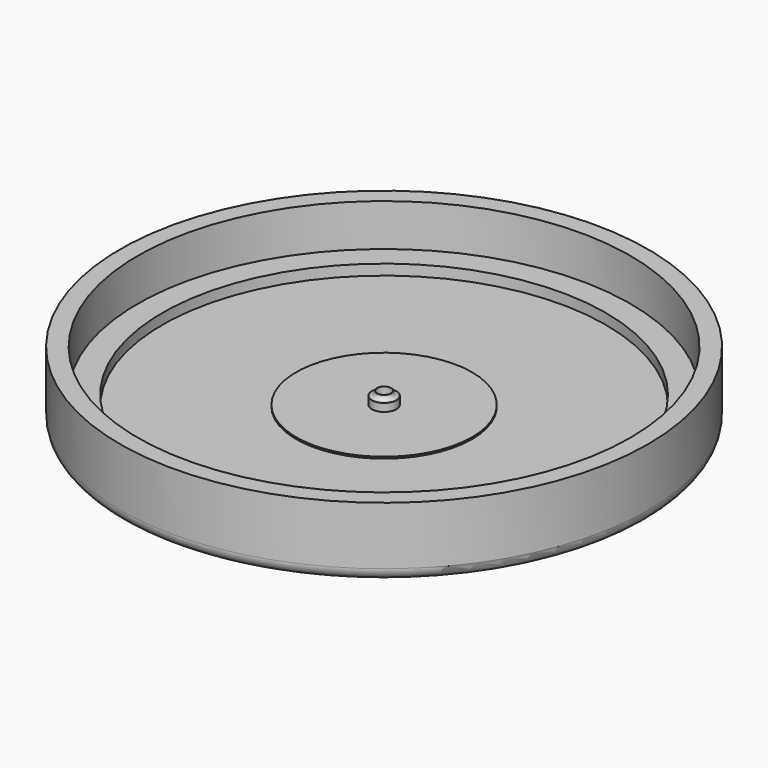
from build123d import *

# Parameters (mm, degrees)
CYLINDER008_R     = 16
CYLINDER008_DEPTH = 10
CYLINDER007_R     = 14
CYLINDER007_DEPTH = 6.4
CYLINDER006_R     = 14
CYLINDER006_DEPTH = 1
CYLINDER005_R     = 0.4
CYLINDER005_DEPTH = 1
CYLINDER001_R     = 12.6
CYLINDER001_DEPTH = 8
CYLINDER_R        = 15
CYLINDER_DEPTH    = 8
CYLINDER002_R     = 15
CYLINDER002_DEPTH = 1
FILLET_R          = 0.7
FILLET001_R       = 0.7
FILLET002_R       = 0.8
CYLINDER014_R     = 0.4
CYLINDER014_DEPTH = 2
CYLINDER012_R     = 0.41
CYLINDER012_DEPTH = 0.8
CYLINDER013_R     = 0.7
CYLINDER013_DEPTH = 0.55
FILLET003_R       = 0.24
CYLINDER015_R     = 5
CYLINDER015_DEPTH = 0.1


with BuildPart() as cylinder008:
    # Cylinder008 → Cylinder008 (new body)
    with BuildSketch(Plane.XY.offset(4)):
        Circle(CYLINDER008_R)
    extrude(amount=CYLINDER008_DEPTH)


with BuildPart() as cylinder007:
    # Cylinder007 → Cylinder007 (new body)
    with BuildSketch(Plane.XY.offset(1.6)):
        Circle(CYLINDER007_R)
    extrude(amount=CYLINDER007_DEPTH)


with BuildPart() as cylinder006:
    # Cylinder006 → Cylinder006 (new body)
    with BuildSketch(Plane.XY.offset(7)):
        Circle(CYLINDER006_R)
    extrude(amount=CYLINDER006_DEPTH)


with BuildPart() as cylinder005:
    # Cylinder005 → Cylinder005 (new body)
    with BuildSketch(Plane.XY):
        Circle(CYLINDER005_R)
    extrude(amount=CYLINDER005_DEPTH)


with BuildPart() as cylinder001:
    # Cylinder001 → Cylinder001 (new body)
    with BuildSketch(Plane.XY):
        Circle(CYLINDER001_R)
    extrude(amount=CYLINDER001_DEPTH)


with BuildPart() as cut:
    # Cylinder → Cylinder (new body)
    with BuildSketch(Plane.XY):
        Circle(CYLINDER_R)
    extrude(amount=CYLINDER_DEPTH)

    # Cut: cut Cylinder001
    add(cylinder001.part, mode=Mode.SUBTRACT)


with BuildPart() as cut007:
    # Cylinder002 → Cylinder002 (new body)
    with BuildSketch(Plane.XY):
        Circle(CYLINDER002_R)
    extrude(amount=CYLINDER002_DEPTH)

    # Fusion: union Cut
    add(cut.part)

    # Cut001: cut Cylinder005
    add(cylinder005.part, mode=Mode.SUBTRACT)

    # Cut003: cut Cylinder006
    add(cylinder006.part, mode=Mode.SUBTRACT)

    # Fillet
    fillet_edges = [cut007.edges().sort_by_distance(p)[0] for p in [
        (-15, 0, 8),
    ]]
    fillet(fillet_edges, radius=FILLET_R)

    # Fillet001
    fillet001_edges = [cut007.edges().sort_by_distance(p)[0] for p in [
        (-15, 0, 0),
    ]]
    fillet(fillet001_edges, radius=FILLET001_R)

    # Fillet002
    fillet002_edges = [cut007.edges().sort_by_distance(p)[0] for p in [
        (-0.4, 0, 0),
    ]]
    fillet(fillet002_edges, radius=FILLET002_R)

    # Cut004: cut Cylinder007
    add(cylinder007.part, mode=Mode.SUBTRACT)

    # Cut007: cut Cylinder008
    add(cylinder008.part, mode=Mode.SUBTRACT)


with BuildPart() as cylinder014:
    # Cylinder014 → Cylinder014 (new body)
    with BuildSketch(Plane.XY.offset(1)):
        Circle(CYLINDER014_R)
    extrude(amount=CYLINDER014_DEPTH)


with BuildPart() as cylinder012:
    # Cylinder012 → Cylinder012 (new body)
    with BuildSketch(Plane.XY.offset(1)):
        Circle(CYLINDER012_R)
    extrude(amount=CYLINDER012_DEPTH)


with BuildPart() as fillet003:
    # Cylinder013 → Cylinder013 (new body)
    with BuildSketch(Plane.XY.offset(1)):
        Circle(CYLINDER013_R)
    extrude(amount=CYLINDER013_DEPTH)

    # Fusion001: union Cylinder012
    add(cylinder012.part)

    # Fillet003
    fillet003_edges = [fillet003.edges().sort_by_distance(p)[0] for p in [
        (-0.41, 0, 1.55),
    ]]
    fillet(fillet003_edges, radius=FILLET003_R)


with BuildPart() as fusion003:
    # Cylinder015 → Cylinder015 (new body)
    with BuildSketch(Plane.XY.offset(1)):
        Circle(CYLINDER015_R)
    extrude(amount=CYLINDER015_DEPTH)

    # Fusion002: union Fillet003
    add(fillet003.part)

    # Cut006: cut Cylinder014
    add(cylinder014.part, mode=Mode.SUBTRACT)

    # Fusion003: union Cut007
    add(cut007.part)


solid = fusion003.part
